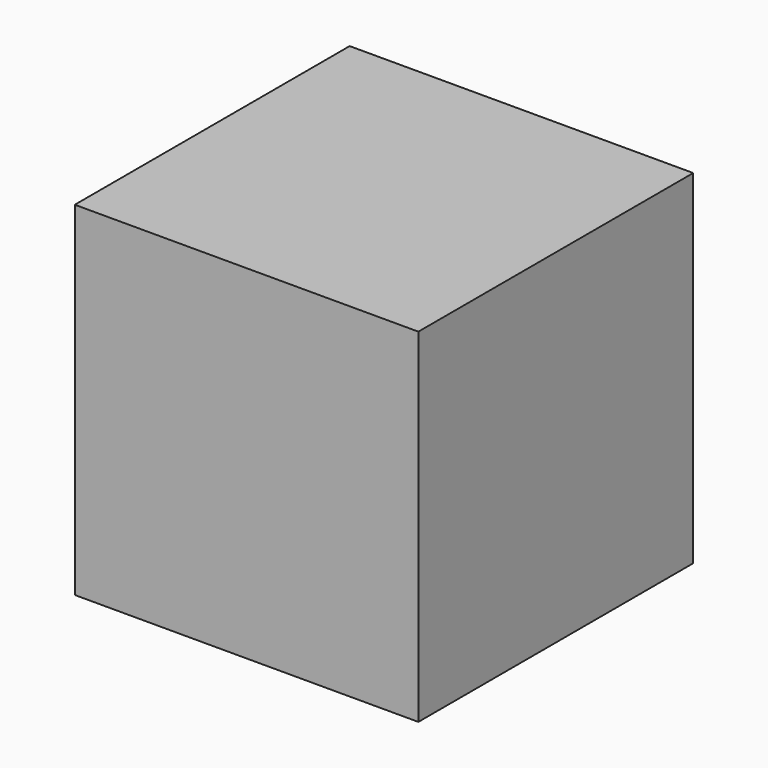
from build123d import *

# Parameters (mm, degrees)
F0_W     = 50
F0_H     = 50
F0_W_2   = 48
F0_H_2   = 48
F1_DEPTH = 25
F2_DEPTH = 24


with BuildPart() as f1:
    # F0 (on Front) → F1 (new body, symmetric)
    with BuildSketch(Plane.XZ):
        Rectangle(F0_W, F0_H)
        Rectangle(F0_W_2, F0_H_2, mode=Mode.SUBTRACT)
        Rectangle(F0_W_2, F0_H_2)
    extrude(amount=F1_DEPTH, both=True)


with BuildPart() as f2:
    # F0 (on Front) → F2 (new body, symmetric)
    with BuildSketch(Plane.XZ):
        Rectangle(F0_W_2, F0_H_2)
    extrude(amount=F2_DEPTH, both=True)


with BuildPart() as f1_1:
    add(f1.part)

    # F3: cut F2
    add(f2.part, mode=Mode.SUBTRACT)


solid = f1_1.part
